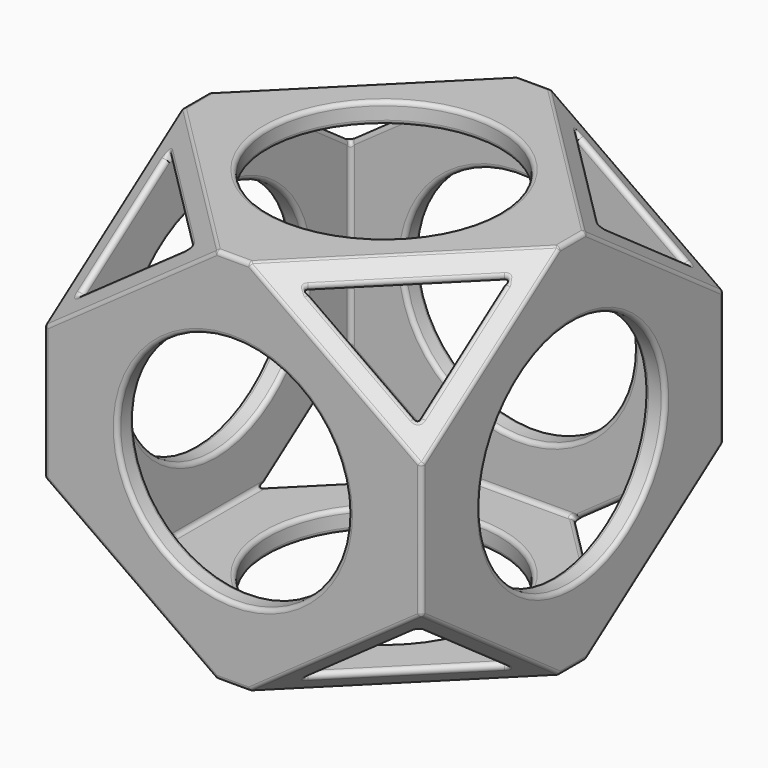
from build123d import *

# Parameters (mm, degrees)
BOX004_W               = 140
BOX004_H               = 112
BOX004_DEPTH           = 112
BOX004_ROLL_ANGLE      = 45
BOX004_PLACEMENT_ANGLE = -45
BOX005_W               = 180
BOX005_H               = 180
BOX005_DEPTH           = 180
BOX005_ROLL_ANGLE      = 45
BOX005_PLACEMENT_ANGLE = -45
BOX002_W               = 140
BOX002_H               = 112
BOX002_DEPTH           = 112
BOX002_ROLL_ANGLE      = 45
BOX002_PLACEMENT_ANGLE = 45
BOX003_W               = 180
BOX003_H               = 180
BOX003_DEPTH           = 180
BOX003_ROLL_ANGLE      = 45
BOX003_PLACEMENT_ANGLE = 45
CYLINDER_R             = 27.5
CYLINDER_DEPTH         = 120
CYLINDER001_R          = 27.5
CYLINDER001_DEPTH      = 120
CYLINDER002_R          = 27.5
CYLINDER002_DEPTH      = 120
BOX001_W               = 80
BOX001_H               = 80
BOX001_DEPTH           = 80
BOX_W                  = 90
BOX_H                  = 90
BOX_DEPTH              = 90
FILLET_R               = 1


with BuildPart() as cube004:
    # Box004 → Box004 (new body)
    with BuildSketch(Plane.XY):
        with Locations((70, 56)):
            Rectangle(BOX004_W, BOX004_H)
    extrude(amount=BOX004_DEPTH)


with BuildPart() as cube004_1:
    # Box004 roll: moved
    add(cube004.part.rotate(Axis((0, 0, 0), (1, 0, 0)), BOX004_ROLL_ANGLE))


with BuildPart() as cube004_2:
    # Box004 placement: moved
    add(cube004_1.part.moved(Location((-49.497475, 49.497475, -79.195959))).rotate(Axis((-49.497475, 49.497475, -79.195959), (0, 0, 1)), BOX004_PLACEMENT_ANGLE))


with BuildPart() as cut002:
    # Box005 → Box005 (new body)
    with BuildSketch(Plane.XY):
        with Locations((90, 90)):
            Rectangle(BOX005_W, BOX005_H)
    extrude(amount=BOX005_DEPTH)


with BuildPart() as cut002_1:
    # Box005 roll: moved
    add(cut002.part.rotate(Axis((0, 0, 0), (1, 0, 0)), BOX005_ROLL_ANGLE))


with BuildPart() as cut002_2:
    # Box005 placement: moved
    add(cut002_1.part.moved(Location((-63.63961, 63.63961, -127.279221))).rotate(Axis((-63.63961, 63.63961, -127.279221), (0, 0, 1)), BOX005_PLACEMENT_ANGLE))

    # Cut002: cut Cube004
    add(cube004_2.part, mode=Mode.SUBTRACT)


with BuildPart() as cube002:
    # Box002 → Box002 (new body)
    with BuildSketch(Plane.XY):
        with Locations((70, 56)):
            Rectangle(BOX002_W, BOX002_H)
    extrude(amount=BOX002_DEPTH)


with BuildPart() as cube002_1:
    # Box002 roll: moved
    add(cube002.part.rotate(Axis((0, 0, 0), (1, 0, 0)), BOX002_ROLL_ANGLE))


with BuildPart() as cube002_2:
    # Box002 placement: moved
    add(cube002_1.part.moved(Location((-49.497475, -49.497475, -79.195959))).rotate(Axis((-49.497475, -49.497475, -79.195959), (0, 0, 1)), BOX002_PLACEMENT_ANGLE))


with BuildPart() as cut001:
    # Box003 → Box003 (new body)
    with BuildSketch(Plane.XY):
        with Locations((90, 90)):
            Rectangle(BOX003_W, BOX003_H)
    extrude(amount=BOX003_DEPTH)


with BuildPart() as cut001_1:
    # Box003 roll: moved
    add(cut001.part.rotate(Axis((0, 0, 0), (1, 0, 0)), BOX003_ROLL_ANGLE))


with BuildPart() as cut001_2:
    # Box003 placement: moved
    add(cut001_1.part.moved(Location((-63.63961, -63.63961, -127.279221))).rotate(Axis((-63.63961, -63.63961, -127.279221), (0, 0, 1)), BOX003_PLACEMENT_ANGLE))

    # Cut001: cut Cube002
    add(cube002_2.part, mode=Mode.SUBTRACT)


with BuildPart() as cylinder:
    # Cylinder → Cylinder (new body)
    with BuildSketch(Plane.XY.offset(-60)):
        Circle(CYLINDER_R)
    extrude(amount=CYLINDER_DEPTH)


with BuildPart() as cylinder001:
    # Cylinder001 → Cylinder001 (new body)
    with BuildSketch(Plane.XZ.offset(-60)):
        Circle(CYLINDER001_R)
    extrude(amount=CYLINDER001_DEPTH)


with BuildPart() as cylinder002:
    # Cylinder002 → Cylinder002 (new body)
    with BuildSketch(Plane(origin=(-60, 0, 0), x_dir=(0, 0, -1), z_dir=(1, 0, 0))):
        Circle(CYLINDER002_R)
    extrude(amount=CYLINDER002_DEPTH)


with BuildPart() as fusion:
    # Box001 → Box001 (new body)
    with BuildSketch(Plane(origin=(-40, -40, -40), x_dir=(1, 0, 0), z_dir=(0, 0, 1))):
        with Locations((40, 40)):
            Rectangle(BOX001_W, BOX001_H)
    extrude(amount=BOX001_DEPTH)

    # Fusion: union Cylinder, Cylinder001, Cylinder002
    add(cylinder.part)
    add(cylinder001.part)
    add(cylinder002.part)


with BuildPart() as fillet_body:
    # Box → Box (new body)
    with BuildSketch(Plane(origin=(-45, -45, -45), x_dir=(1, 0, 0), z_dir=(0, 0, 1))):
        with Locations((45, 45)):
            Rectangle(BOX_W, BOX_H)
    extrude(amount=BOX_DEPTH)

    # Cut: cut Fusion
    add(fusion.part, mode=Mode.SUBTRACT)

    # Cut003: cut Cut001
    add(cut001_2.part, mode=Mode.SUBTRACT)

    # Cut004: cut Cut002
    add(cut002_2.part, mode=Mode.SUBTRACT)

    # Fillet
    fillet_edges = [fillet_body.edges().sort_by_distance(p)[0] for p in [
        (-45, 0, 45),
        (-45, 24.180195, 30.278175),
        (-45, 45, 0),
        (-45, 24.180195, -30.278175),
        (-45, 0, -45),
        (-45, -24.180195, -30.278175),
        (-45, -45, 0),
        (-45, -24.180195, 30.278175),
        (-45, 0, 27.5),
        (-24.180195, 24.180195, 45),
        (0, 45, 45),
        (24.180195, 24.180195, 45),
        (45, 0, 45),
        (24.180195, -24.180195, 45),
        (0, -45, 45),
        (-24.180195, -24.180195, 45),
        (-27.5, 0, 45),
        (-24.180195, 45, 30.278175),
        (-40, 27.715729, 31.313708),
        (-27.715729, 27.715729, 40),
        (-27.715729, 40, 31.313708),
        (0, 45, -45),
        (24.180195, 45, -30.278175),
        (45, 45, 0),
        (24.180195, 45, 30.278175),
        (-24.180195, 45, -30.278175),
        (-27.5, 45, 0),
        (-24.180195, 24.180195, -45),
        (-40, 27.715729, -31.313708),
        (-27.715729, 27.715729, -40),
        (-27.715729, 40, -31.313708),
        (24.180195, 24.180195, -45),
        (45, 0, -45),
        (24.180195, -24.180195, -45),
        (0, -45, -45),
        (-24.180195, -24.180195, -45),
        (-27.5, 0, -45),
        (-24.180195, -45, -30.278175),
        (-40, -27.715729, -31.313708),
        (-27.715729, -40, -31.313708),
        (-27.715729, -27.715729, -40),
        (24.180195, -45, -30.278175),
        (45, -45, 0),
        (24.180195, -45, 30.278175),
        (-24.180195, -45, 30.278175),
        (-27.5, -45, 0),
        (-40, -27.715729, 31.313708),
        (-27.715729, -40, 31.313708),
        (-27.715729, -27.715729, 40),
        (-40, 0, 27.5),
        (45, 24.180195, 30.278175),
        (40, 27.715729, 31.313708),
        (27.715729, 40, 31.313708),
        (27.715729, 27.715729, 40),
        (45, -24.180195, 30.278175),
        (45, 24.180195, -30.278175),
        (45, -24.180195, -30.278175),
        (45, 0, 27.5),
        (27.715729, -40, 31.313708),
        (40, -27.715729, 31.313708),
        (27.715729, -27.715729, 40),
        (-27.5, 0, 40),
        (-40, 0, 40),
        (-40, 40, 0),
        (-40, 0, -40),
        (-40, -40, 0),
        (0, 40, 40),
        (40, 0, 40),
        (0, -40, 40),
        (0, 40, -40),
        (27.715729, 40, -31.313708),
        (40, 40, 0),
        (-27.5, 40, 0),
        (27.715729, 27.715729, -40),
        (40, 27.715729, -31.313708),
        (40, 0, -40),
        (27.715729, -27.715729, -40),
        (0, -40, -40),
        (-27.5, 0, -40),
        (27.715729, -40, -31.313708),
        (40, -27.715729, -31.313708),
        (40, -40, 0),
        (-27.5, -40, 0),
        (40, 0, 27.5),
    ]]
    fillet(fillet_edges, radius=FILLET_R)


solid = fillet_body.part
